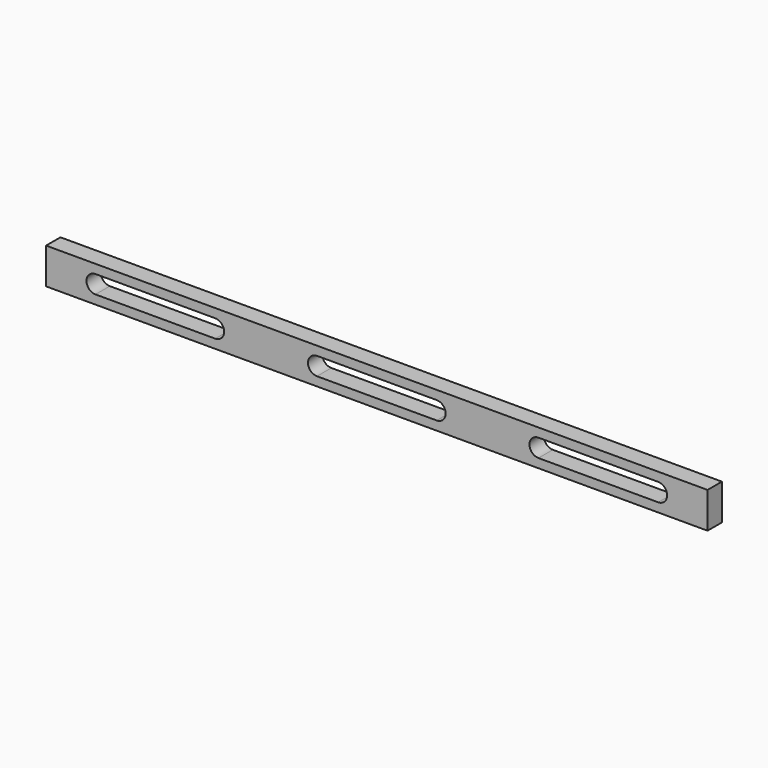
from build123d import *

# Parameters (mm, degrees)
F0_W     = 1175
F0_H     = 60
F1_DEPTH = 30
F2_W     = 35
F2_H     = 60
F3_DEPTH = 30


with BuildPart() as f1:
    # F0 (on Front) → F1 (new body)
    with BuildSketch(Plane.XZ):
        with Locations((587.5, 30)):
            Rectangle(F0_W, F0_H)
        with BuildLine():
            Line((317.5, 15), (117.5, 15))
            ThreePointArc((117.5, 15), (102.5, 30), (117.5, 45))
            Line((117.5, 45), (317.5, 45))
            ThreePointArc((317.5, 45), (332.5, 30), (317.5, 15))
        make_face(mode=Mode.SUBTRACT)
        with BuildLine():
            Line((687.5, 15), (487.5, 15))
            ThreePointArc((487.5, 15), (472.5, 30), (487.5, 45))
            Line((487.5, 45), (687.5, 45))
            ThreePointArc((687.5, 45), (702.5, 30), (687.5, 15))
        make_face(mode=Mode.SUBTRACT)
        with BuildLine():
            Line((1057.5, 15), (857.5, 15))
            ThreePointArc((857.5, 15), (842.5, 30), (857.5, 45))
            Line((857.5, 45), (1057.5, 45))
            ThreePointArc((1057.5, 45), (1072.5, 30), (1057.5, 15))
        make_face(mode=Mode.SUBTRACT)
    extrude(amount=F1_DEPTH)

    # F2 (on face) → F3 (cut)
    with BuildSketch(Plane.XZ.offset(30)):
        with Locations((17.5, 30)):
            Rectangle(F2_W, F2_H)
        with Locations((1157.5, 30)):
            Rectangle(F2_W, F2_H)
    extrude(amount=-F3_DEPTH, mode=Mode.SUBTRACT)


solid = f1.part
